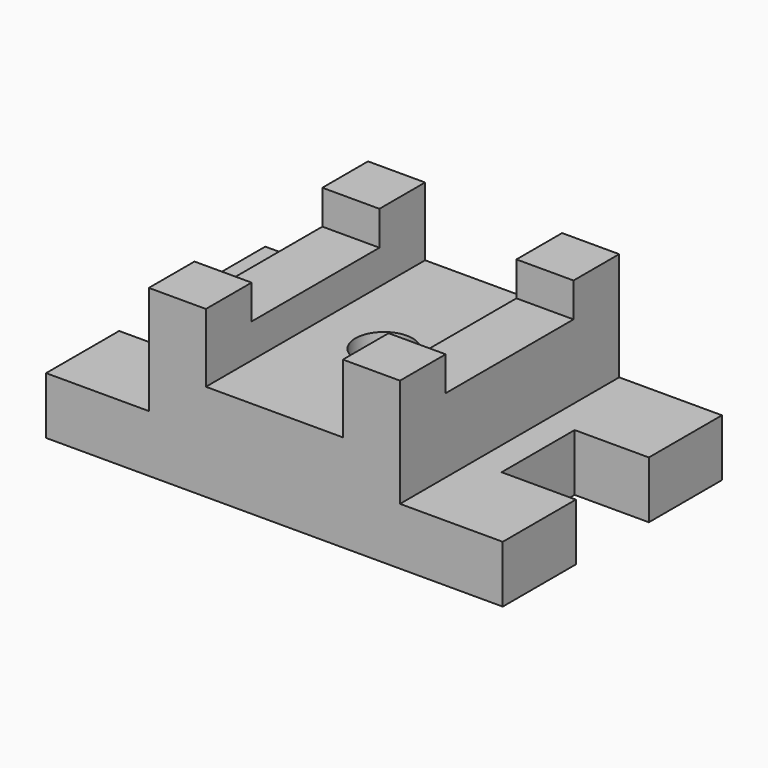
from build123d import *

# Parameters (mm, degrees)
F0_W     = 31.75
F0_H     = 31.75
F0_H_2   = 88.9
F0_R     = 15.875
F1_DEPTH = 31.75
F2_DEPTH = 60.325
F3_DEPTH = 41.275
F4_DEPTH = 22.225


with BuildPart() as f1:
    # F0 (on Top) → F1 (new body)
    with BuildSketch(Plane.XY):
        Polygon((-69.85, 44.45), (-69.85, 76.2), (-127, 76.2), (-127, 25.4), (-85.725, 25.4), (-85.725, 0), (-85.725, -25.4), (-127, -25.4), (-127, -76.2), (-69.85, -76.2), (-69.85, -44.45), align=None)
        with Locations((-53.975, 60.325)):
            Rectangle(F0_W, F0_H)
        with Locations((-53.975, 0)):
            Rectangle(F0_W, F0_H_2)
        with Locations((-53.975, -60.325)):
            Rectangle(F0_W, F0_H)
        Polygon((38.1, 44.45), (38.1, 76.2), (-38.1, 76.2), (-38.1, 44.45), (-38.1, -44.45), (-38.1, -76.2), (38.1, -76.2), (38.1, -44.45), align=None)
        Circle(F0_R, mode=Mode.SUBTRACT)
        with Locations((53.975, -60.325)):
            Rectangle(F0_W, F0_H)
        with Locations((53.975, 0)):
            Rectangle(F0_W, F0_H_2)
        with Locations((53.975, 60.325)):
            Rectangle(F0_W, F0_H)
        Polygon((127, 25.4), (127, 76.2), (69.85, 76.2), (69.85, 44.45), (69.85, -44.45), (69.85, -76.2), (127, -76.2), (127, -25.4), (85.725, -25.4), (85.725, 0), (85.725, 25.4), align=None)
    extrude(amount=-F1_DEPTH)

    # F0 (on Top) → F2 (join)
    with BuildSketch(Plane.XY):
        with Locations((-53.975, 60.325)):
            Rectangle(F0_W, F0_H)
        with Locations((-53.975, -60.325)):
            Rectangle(F0_W, F0_H)
        with Locations((53.975, 60.325)):
            Rectangle(F0_W, F0_H)
        with Locations((53.975, -60.325)):
            Rectangle(F0_W, F0_H)
    extrude(amount=F2_DEPTH)

    # F0 (on Top) → F3 (join)
    with BuildSketch(Plane.XY):
        with Locations((-53.975, 0)):
            Rectangle(F0_W, F0_H_2)
        with Locations((53.975, 0)):
            Rectangle(F0_W, F0_H_2)
    extrude(amount=F3_DEPTH)

    # F0 (on Top) → F4 (join)
    with BuildSketch(Plane.XY):
        Polygon((38.1, 44.45), (38.1, 76.2), (-38.1, 76.2), (-38.1, 44.45), (-38.1, -44.45), (-38.1, -76.2), (38.1, -76.2), (38.1, -44.45), align=None)
        Circle(F0_R, mode=Mode.SUBTRACT)
    extrude(amount=F4_DEPTH)


solid = f1.part
